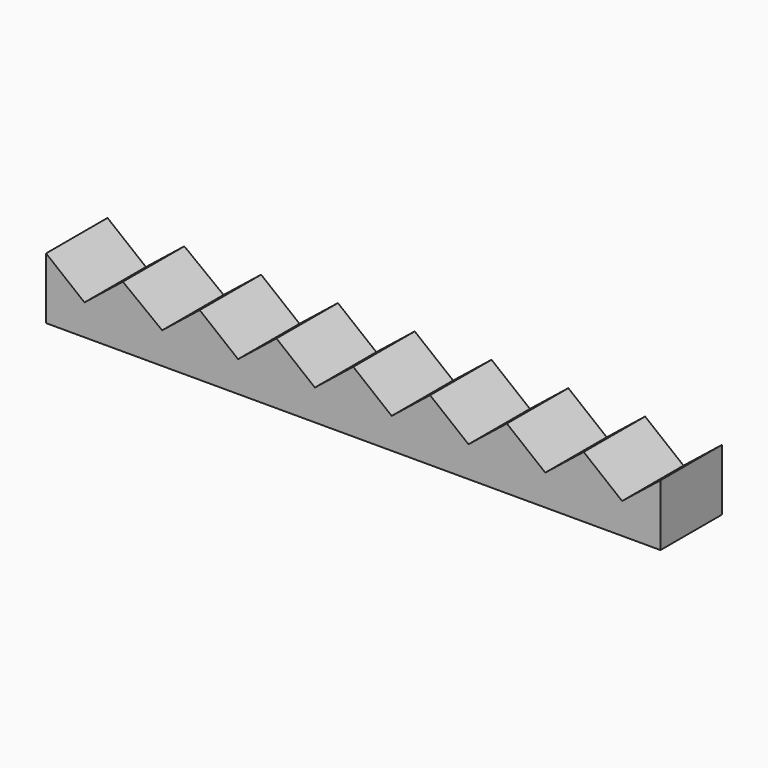
from build123d import *

# Parameters (mm, degrees)
F1_DEPTH = 6.35
F2_SCALE = 2


with BuildPart() as f1:
    # F0 (on Front) → F1 (new body)
    with BuildSketch(Plane.XZ):
        Polygon((19.05, -2.54), (25.4, -2.54), (25.4, 2.54), (22.225, 0), (19.05, 2.54), (15.875, 0), (12.7, 2.54), (9.525, 0), (6.35, 2.54), (3.175, 0), (0, 2.54), (-3.175, 0), (-6.35, 2.54), (-9.525, 0), (-12.7, 2.54), (-15.8026084123, 0.0579132702), (-19.05, 2.54), (-22.225, 0), (-25.4, 2.54), (-25.4, -2.54), (-19.05, -2.54), (-12.7, -2.54), (-6.35, -2.54), (0, -2.54), (6.35, -2.54), (12.7, -2.54), align=None)
    extrude(amount=F1_DEPTH)


with BuildPart() as f1_1:
    # F2: moved
    add(f1.part.scale(F2_SCALE))


solid = f1_1.part
